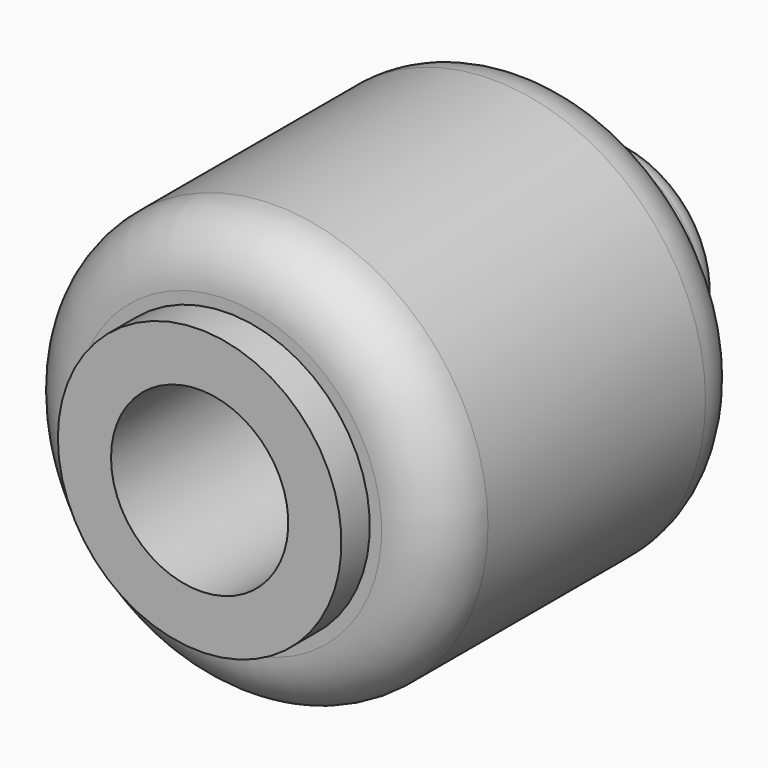
from build123d import *

# Parameters (mm, degrees)
F2_R     = 7.5
F3_DEPTH = 56.33377


with BuildPart() as f1:
    # F0 (on Top) → F1 (revolve)
    with BuildSketch(Plane.XY):
        with BuildLine():
            Line((-12, 0), (0, 0))
            Line((0, 0), (0, 44))
            Line((0, 44), (-7, 44))
            ThreePointArc((-7, 44), (-8.414214, 43.414214), (-9, 42))
            Line((-9, 42), (-9, 36))
            Line((-9, 36), (-13, 36))
            ThreePointArc((-13, 36), (-16.535534, 34.535534), (-18, 31))
            Line((-18, 31), (-18, 8))
            ThreePointArc((-18, 8), (-16.535534, 4.464466), (-13, 3))
            Line((-13, 3), (-12, 3))
            Line((-12, 3), (-12, 0))
        make_face()
    revolve(axis=Axis((0, 22, 0), (0, 1, 0)))

    # F2 (on face) → F3 (cut)
    with BuildSketch(Plane(origin=(0, 44, 0), x_dir=(-1, 0, 0), z_dir=(0, 1, 0))):
        Circle(F2_R)
    extrude(amount=-F3_DEPTH, mode=Mode.SUBTRACT)


solid = f1.part
